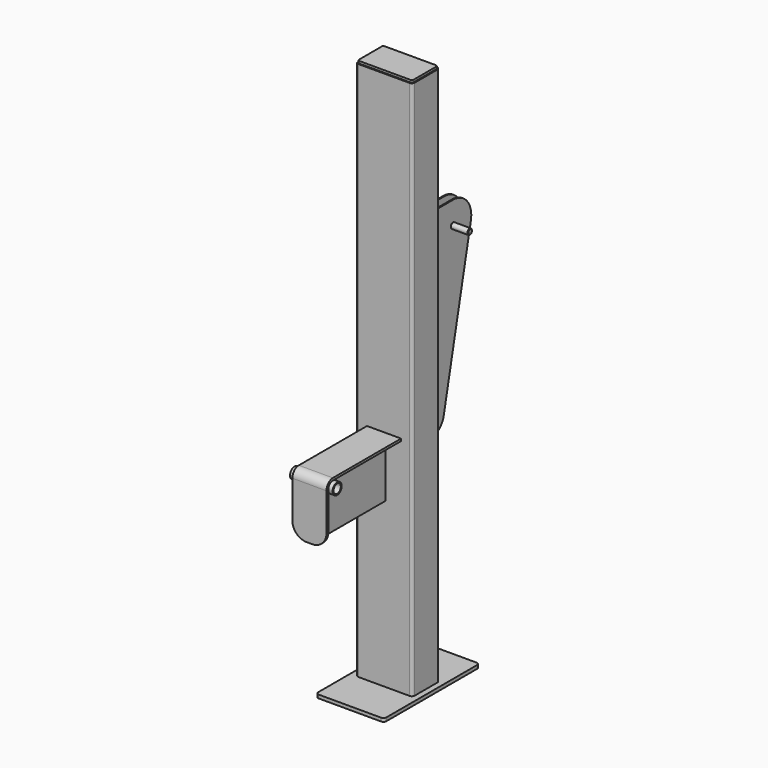
from build123d import *

# Parameters (mm, degrees)
F0_W      = 100
F0_H      = 60
F1_DEPTH  = 950
F2_R      = 5
F3_T      = -3
F5_DEPTH  = 25
F7_DEPTH  = 4
F10_DEPTH = 350
F12_R     = 5.1
F13_DEPTH = 25
F14_R     = 10
F16_DEPTH = 2
F18_DEPTH = 6
F19_R     = 5
F20_DEPTH = 30
F22_SIZE  = 1
F23_DEPTH = 350
F25_R     = 2.5
F26_DEPTH = 3
F28_DEPTH = 30
F30_DEPTH = 3
F31_R     = 10
F31_R_2   = 8
F32_DEPTH = 37.5
F33_R     = 25


with BuildPart() as f1:
    # F0 (on Top) → F1 (new body)
    with BuildSketch(Plane.XY):
        Rectangle(F0_W, F0_H)
    extrude(amount=F1_DEPTH)

    # F2
    f2_edges = [f1.edges().sort_by_distance(p)[0] for p in [
        (-50, -30, 475),
        (-50, 30, 475),
        (50, -30, 475),
        (50, 30, 475),
    ]]
    fillet(f2_edges, radius=F2_R)

    # F3
    f3_openings = [f1.faces().sort_by_distance(p)[0] for p in [
        (0, 0, 0),
        (0, 0, 950),
    ]]
    offset(amount=F3_T, openings=f3_openings)

    # F4 (on face) → F5 (cut)
    with BuildSketch(Plane(origin=(0, 30, 0), x_dir=(-1, 0, 0), z_dir=(0, 1, 0))):
        with BuildLine():
            ThreePointArc((35, 890), (0, 925), (-35, 890))
            Line((-35, 890), (-35, 810))
            ThreePointArc((-35, 810), (0, 775), (35, 810))
            Line((35, 810), (35, 890))
        make_face()
    extrude(amount=-F5_DEPTH, mode=Mode.SUBTRACT)

    # F25 (on face) → F26 (cut, through all)
    with BuildSketch(Plane(origin=(0, 30, 0), x_dir=(-1, 0, 0), z_dir=(0, 1, 0))):
        with Locations((-30, 680)):
            Circle(F25_R)
        with Locations((30, 680)):
            Circle(F25_R)
        with Locations((-30, 390)):
            Circle(F25_R)
        with Locations((30, 390)):
            Circle(F25_R)
    extrude(amount=-F26_DEPTH, mode=Mode.SUBTRACT)


with BuildPart() as f7:
    # F6 (on face) → F7 (new body)
    with BuildSketch(Plane.XY.offset(950)):
        with BuildLine():
            Line((45, 28), (-45, 28))
            ThreePointArc((-45, 28), (-47.1213203436, 27.1213203436), (-48, 25))
            Line((-48, 25), (-48, -25))
            ThreePointArc((-48, -25), (-47.1213203436, -27.1213203436), (-45, -28))
            Line((-45, -28), (45, -28))
            ThreePointArc((45, -28), (47.1213203436, -27.1213203436), (48, -25))
            Line((48, -25), (48, 25))
            ThreePointArc((48, 25), (47.1213203436, 27.1213203436), (45, 28))
        make_face()
        with BuildLine():
            ThreePointArc((47, -25), (46.4142135624, -26.4142135624), (45, -27))
            Line((45, -27), (-45, -27))
            ThreePointArc((-45, -27), (-46.4142135624, -26.4142135624), (-47, -25))
            Line((-47, -25), (-47, 25))
            ThreePointArc((-47, 25), (-46.4142135624, 26.4142135624), (-45, 27))
            Line((-45, 27), (45, 27))
            ThreePointArc((45, 27), (46.4142135624, 26.4142135624), (47, 25))
            Line((47, 25), (47, -25))
        make_face(mode=Mode.SUBTRACT)
        with BuildLine():
            Line((-45, -27), (45, -27))
            ThreePointArc((45, -27), (46.4142135624, -26.4142135624), (47, -25))
            Line((47, -25), (47, 25))
            ThreePointArc((47, 25), (46.4142135624, 26.4142135624), (45, 27))
            Line((45, 27), (-45, 27))
            ThreePointArc((-45, 27), (-46.4142135624, 26.4142135624), (-47, 25))
            Line((-47, 25), (-47, -25))
            ThreePointArc((-47, -25), (-46.4142135624, -26.4142135624), (-45, -27))
        make_face()
    extrude(amount=F7_DEPTH)


with BuildPart() as f10:
    # F9 (on offset) → F10 (new body)
    with BuildSketch(Plane.XY.offset(700)):
        with BuildLine():
            Line((-10.51, 32.7887609601), (-45, 32.7887609601))
            Line((-45, 32.7887609601), (-45, 30.7887609601))
            Line((-45, 30.7887609601), (-10.51, 30.7887609601))
            ThreePointArc((-10.51, 30.7887609601), (-8.028055198, 31.8168161581), (-7, 34.2987609601))
            Line((-7, 34.2987609601), (-7, 190.7887609601))
            Line((-7, 190.7887609601), (-9, 190.7887609601))
            Line((-9, 190.7887609601), (-9, 34.2987609601))
            ThreePointArc((-9, 34.2987609601), (-9.4422687604, 33.2310297205), (-10.51, 32.7887609601))
        make_face()
    extrude(amount=-F10_DEPTH)

    # F12 (on face) → F13 (cut)
    with BuildSketch(Plane(origin=(-9, 0, 0), x_dir=(0, -1, 0), z_dir=(-1, 0, 0))):
        with BuildLine():
            Line((-110.7887609601, 700), (-30.7887609601, 700))
            Line((-30.7887609601, 700), (-30.7887609601, 788.1834506989))
            Line((-30.7887609601, 788.1834506989), (-387.8864347935, 788.1834506989))
            Line((-387.8864347935, 788.1834506989), (-387.8864347935, 182.9112367149))
            Line((-387.8864347935, 182.9112367149), (-30.7887609601, 182.9112367149))
            Line((-30.7887609601, 182.9112367149), (-30.7887609601, 350))
            Line((-30.7887609601, 350), (-60.7887609601, 350))
            ThreePointArc((-60.7887609601, 350), (-79.6399767089, 356.6626551469), (-90.1179158154, 373.6912223473))
            Line((-90.1179158154, 373.6912223473), (-149.8943007672, 651.588296463))
            ThreePointArc((-149.8943007672, 651.588296463), (-141.9052207642, 685.1349543318), (-110.7887609601, 700))
        make_face()
        with Locations((-110.7887609601, 660)):
            Circle(F12_R)
    extrude(amount=-F13_DEPTH, mode=Mode.SUBTRACT)

    # F14
    f14_edges = [f10.edges().sort_by_distance(p)[0] for p in [
        (-45, 31.788761, 700),
        (-45, 31.788761, 350),
    ]]
    fillet(f14_edges, radius=F14_R)

    # F15 (on face) → F16 (cut, through all)
    with BuildSketch(Plane(origin=(0, 32.7887609601, 0), x_dir=(-1, 0, 0), z_dir=(0, 1, 0))):
        with BuildLine():
            ThreePointArc((39, 680), (37.8284271247, 682.8284271247), (35, 684))
            Line((35, 684), (30, 684))
            ThreePointArc((30, 684), (26, 680), (30, 676))
            Line((30, 676), (31, 676))
            Line((31, 676), (31, 660))
            ThreePointArc((31, 660), (35, 656), (39, 660))
            Line((39, 660), (39, 680))
        make_face()
        with BuildLine():
            ThreePointArc((31, 370), (35, 366), (39, 370))
            Line((39, 370), (39, 390))
            ThreePointArc((39, 390), (37.8284271247, 392.8284271247), (35, 394))
            Line((35, 394), (30, 394))
            ThreePointArc((30, 394), (26, 390), (30, 386))
            Line((30, 386), (31, 386))
            Line((31, 386), (31, 370))
        make_face()
    extrude(amount=-F16_DEPTH, mode=Mode.SUBTRACT)

    # F21 (on offset) → F23 (join)
    with BuildSketch(Plane.XY.offset(700)):
        with BuildLine():
            Line((-25, 34.7887609601), (-25, 32.7887609601))
            Line((-25, 32.7887609601), (-12.51, 32.7887609601))
            ThreePointArc((-12.51, 32.7887609601), (-10.028055198, 33.8168161581), (-9, 36.2987609601))
            Line((-9, 36.2987609601), (-9, 49.2787609601))
            ThreePointArc((-9, 49.2787609601), (-10.028055198, 51.7607057621), (-12.51, 52.7887609601))
            Line((-12.51, 52.7887609601), (-25, 52.7887609601))
            Line((-25, 52.7887609601), (-25, 50.7887609601))
            Line((-25, 50.7887609601), (-12.51, 50.7887609601))
            ThreePointArc((-12.51, 50.7887609601), (-11.4422687604, 50.3464921997), (-11, 49.2787609601))
            Line((-11, 49.2787609601), (-11, 36.2987609601))
            ThreePointArc((-11, 36.2987609601), (-11.4422687604, 35.2310297205), (-12.51, 34.7887609601))
            Line((-12.51, 34.7887609601), (-25, 34.7887609601))
        make_face()
    extrude(amount=-F23_DEPTH)


with BuildPart() as f18:
    # F17 (on face) → F18 (new body)
    with BuildSketch(Plane(origin=(0, 0, 0), x_dir=(1, 0, 0), z_dir=(0, 0, -1))):
        with BuildLine():
            Line((55, 105), (-55, 105))
            ThreePointArc((-55, 105), (-58.5355339059, 103.5355339059), (-60, 100))
            Line((-60, 100), (-60, -100))
            ThreePointArc((-60, -100), (-58.5355339059, -103.5355339059), (-55, -105))
            Line((-55, -105), (55, -105))
            ThreePointArc((55, -105), (58.5355339059, -103.5355339059), (60, -100))
            Line((60, -100), (60, 100))
            ThreePointArc((60, 100), (58.5355339059, 103.5355339059), (55, 105))
        make_face()
    extrude(amount=F18_DEPTH)


with BuildPart() as f20:
    # F19 (on face) → F20 (new body)
    with BuildSketch(Plane(origin=(-9, 0, 0), x_dir=(0, -1, 0), z_dir=(-1, 0, 0))):
        with Locations((-110.7887609601, 660)):
            Circle(F19_R)
    extrude(amount=F20_DEPTH)

    # F22
    f22_edges = [f20.edges().sort_by_distance(p)[0] for p in [
        (-39, 115.788761, 660),
    ]]
    chamfer(f22_edges, length=F22_SIZE)


with BuildPart() as f24_1:
    # F24: instance of F10
    add(f10.part.mirror(Plane.YZ))


with BuildPart() as f24_2:
    # F24: instance of F20
    add(f20.part.mirror(Plane.YZ))


with BuildPart() as f28:
    # F27 (on Right) → F28 (new body, symmetric)
    with BuildSketch(Plane.YZ):
        with BuildLine():
            Line((-194.2, 288.8384518319), (-190.2, 288.8384518319))
            Line((-190.2, 288.8384518319), (-190.2, 379.8))
            ThreePointArc((-190.2, 379.8), (-187.2124891681, 387.0124891681), (-180, 390))
            Line((-180, 390), (-30, 390))
            Line((-30, 390), (-30, 394))
            Line((-30, 394), (-180, 394))
            ThreePointArc((-180, 394), (-190.0409162928, 389.8409162928), (-194.2, 379.8))
            Line((-194.2, 379.8), (-194.2, 288.8384518319))
        make_face()
    extrude(amount=F28_DEPTH, both=True)

    # F33
    f33_edges = [f28.edges().sort_by_distance(p)[0] for p in [
        (30, -192.2, 288.838452),
        (-30, -192.2, 288.838452),
    ]]
    fillet(f33_edges, radius=F33_R)


with BuildPart() as f30:
    # F29 (on Right) → F30 (new body, symmetric)
    with BuildSketch(Plane.YZ):
        Polygon((-30, 390), (-170.2, 390), (-170.2, 370), (-190.2, 370), (-190.2, 288.8384518319), (-30, 288.8384518319), align=None)
    extrude(amount=F30_DEPTH, both=True)


with BuildPart() as f32:
    # F31 (on Right) → F32 (new body, symmetric)
    with BuildSketch(Plane.YZ):
        with Locations((-180, 379.8)):
            Circle(F31_R)
        with Locations((-180, 379.8)):
            Circle(F31_R_2, mode=Mode.SUBTRACT)
    extrude(amount=F32_DEPTH, both=True)


solid = Compound([f1.part, f7.part, f10.part, f18.part, f20.part, f24_1.part, f24_2.part, f28.part, f30.part, f32.part])
